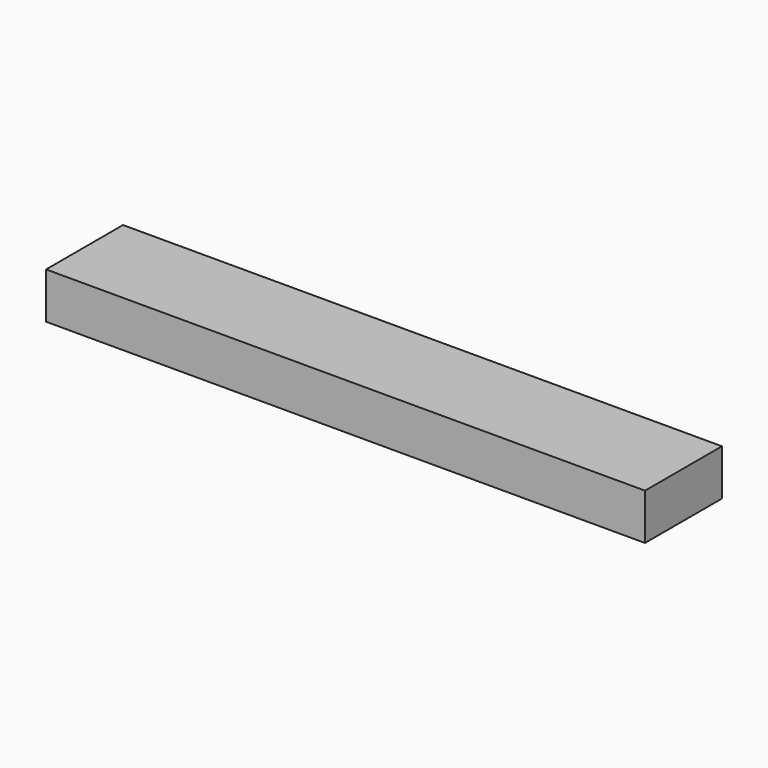
from build123d import *

# Parameters (mm, degrees)
BOX_W     = 299
BOX_H     = 48
BOX_DEPTH = 23


with BuildPart() as part:
    # Box → Box (new body)
    with BuildSketch(Plane.XY):
        with Locations((149.5, 24)):
            Rectangle(BOX_W, BOX_H)
    extrude(amount=BOX_DEPTH)


solid = part.part
